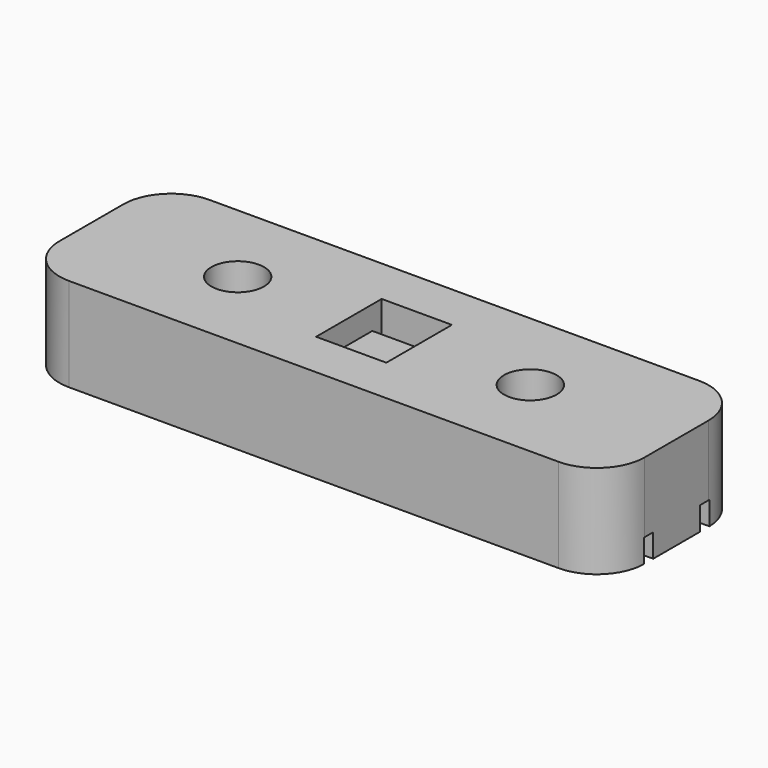
from build123d import *

# Parameters (mm, degrees)
F0_W     = 22
F0_H     = 1
F0_H_2   = 5
F1_DEPTH = 8
F0_W_2   = 6
F2_DEPTH = 17.526
F3_D     = 4.5
F3_DEPTH = 10
F4_DEPTH = 6
F5_DEPTH = 2
F6_R     = 4.0894


with BuildPart() as f1:
    # F0 (on Top) → F1 (new body)
    with BuildSketch(Plane.XY):
        Polygon((25, 3.5), (25, 7.5), (-25, 7.5), (-25, 3.5), (-3, 3.5), (3, 3.5), align=None)
        with Locations((14, -3)):
            Rectangle(F0_W, F0_H)
        with Locations((-14, -3)):
            Rectangle(F0_W, F0_H)
        Polygon((25, -7.5), (25, -3.5), (3, -3.5), (-3, -3.5), (-25, -3.5), (-25, -7.5), align=None)
        with Locations((-14, 0)):
            Rectangle(F0_W, F0_H_2)
        with Locations((14, 0)):
            Rectangle(F0_W, F0_H_2)
        with Locations((14, 3)):
            Rectangle(F0_W, F0_H)
        with Locations((-14, 3)):
            Rectangle(F0_W, F0_H)
    extrude(amount=F1_DEPTH)

    # F0 (on Top) → F2 (cut)
    with BuildSketch(Plane.XY):
        with Locations((0, 3)):
            Rectangle(F0_W_2, F0_H)
    extrude(amount=F2_DEPTH, mode=Mode.SUBTRACT)

    # F3
    with Locations(Plane(origin=(0, 0, 0), x_dir=(1, 0, 0), z_dir=(0, 0, -1))):
        with Locations((-12.5, 0), (12.5, 0)):
            Hole(F3_D / 2, depth=F3_DEPTH)

    # F0 (on Top) → F4 (join)
    with BuildSketch(Plane.XY):
        Rectangle(F0_W_2, F0_H_2)
    extrude(amount=F4_DEPTH)

    # F0 (on Top) → F5 (cut)
    with BuildSketch(Plane.XY):
        with Locations((-14, -3)):
            Rectangle(F0_W, F0_H)
        with Locations((14, -3)):
            Rectangle(F0_W, F0_H)
        with Locations((14, 3)):
            Rectangle(F0_W, F0_H)
        with Locations((-14, 3)):
            Rectangle(F0_W, F0_H)
    extrude(amount=F5_DEPTH, mode=Mode.SUBTRACT)

    # F6
    f6_edges = [f1.edges().sort_by_distance(p)[0] for p in [
        (25, -7.5, 4),
        (25, 7.5, 4),
        (-25, 7.5, 4),
        (-25, -7.5, 4),
    ]]
    fillet(f6_edges, radius=F6_R)


solid = f1.part
